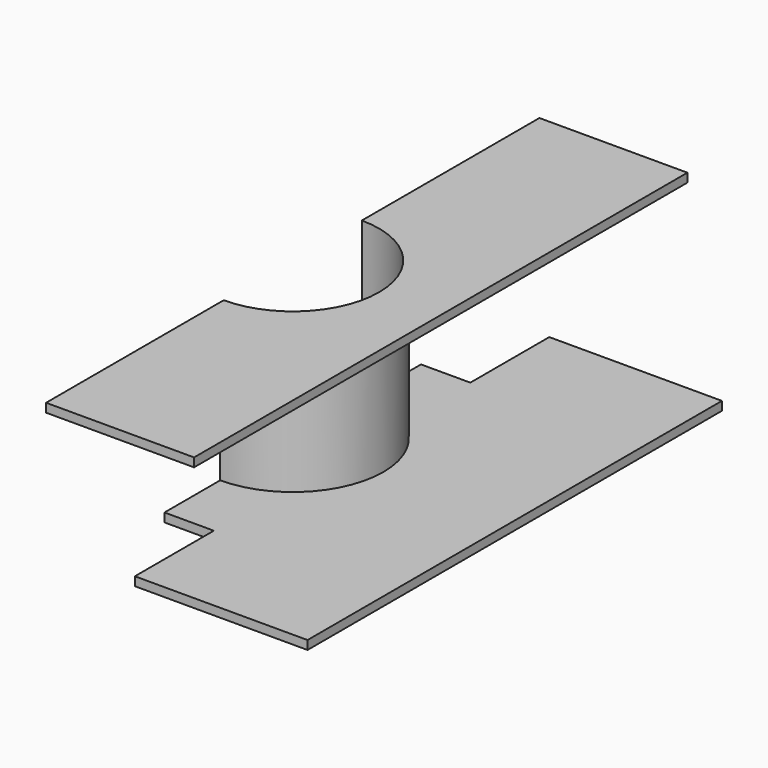
from build123d import *

# Parameters (mm, degrees)
PAD_DEPTH            = 0.625
PAD_DEPTH_BACK       = 0.625
PAD001_DEPTH         = 0.31778
POCKET_DEPTH         = 0.01778
POCKET001_DEPTH      = 0.001
POCKET001_DEPTH_BACK = 0.33656


with BuildPart() as body:
    # Sketch → Pad (new body, two sides)
    with BuildSketch(Plane.XZ) as pad_sk:
        Polygon((0.55, 0), (1.01778, 0), (1.01778, 0.33556), (0.7, 0.33556), (0.7, 0.31778), (1, 0.31778), (1, 0.01778), (0.55, 0.01778), align=None)
    extrude(amount=PAD_DEPTH)
    extrude(pad_sk.sketch, amount=-PAD_DEPTH_BACK)

    # Sketch001 → Pad001 (join)
    with BuildSketch(Plane.XY):
        with BuildLine():
            Line((1, 0.18389), (1, -0.18389))
            ThreePointArc((1, 0.18389), (0.81611, 0), (1, -0.18389))
        make_face()
    extrude(amount=PAD001_DEPTH)

    # Sketch003 → Pocket (cut)
    with BuildSketch(Plane.XY):
        Polygon((0.55, 0.625), (1, 0.625), (1, 0.325), (0.9, 0.325), (0.9, 0.525), (0.55, 0.525), align=None)
    pocket = extrude(amount=POCKET_DEPTH, mode=Mode.SUBTRACT)

    # Mirrored: Pocket across Sketch003 H_Axis
    add(pocket.mirror(Plane.ZX), mode=Mode.SUBTRACT)

    # Sketch004 → Pocket001 (cut, two sides)
    with BuildSketch(Plane.XY) as pocket001_sk:
        with BuildLine():
            Line((1, 0.175), (1, 0.625))
            Line((1, 0.625), (1.01778, 0.625))
            Line((1.01778, 0.625), (1.01778, -0.625))
            Line((1.01778, -0.625), (1, -0.625))
            Line((1, -0.625), (1, -0.175))
            ThreePointArc((1, 0.175), (0.825, 0), (1, -0.175))
        make_face()
    extrude(amount=-POCKET001_DEPTH, mode=Mode.SUBTRACT)
    extrude(pocket001_sk.sketch, amount=POCKET001_DEPTH_BACK, mode=Mode.SUBTRACT)


with BuildPart() as part_mirroring:
    # Part__Mirroring: instance of Body
    add(body.part.mirror(Plane(origin=(0, 0, 0), x_dir=(0, -1, 0), z_dir=(1, 0, 0))))


solid = part_mirroring.part
